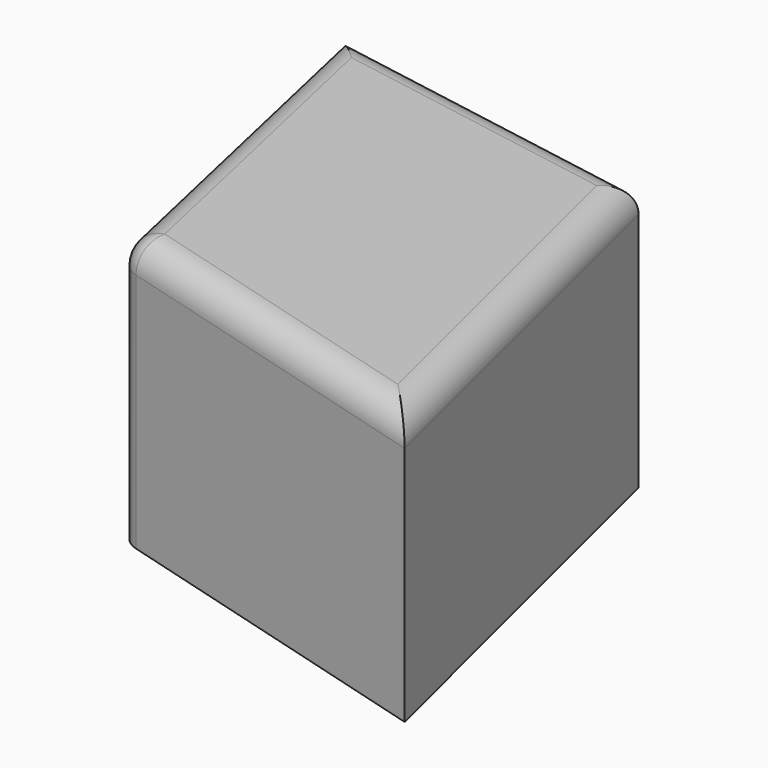
from build123d import *

# Parameters (mm, degrees)
F1_DEPTH = 49.276
F2_R     = 5.08


with BuildPart() as f1:
    # F0 (on Top) → F1 (new body)
    with BuildSketch(Plane.XY):
        Polygon((-46.604361, 25.850823), (-109.627448, 36.7986), (-93.956865, -33.044264), (-27.403316, -51.814996), align=None)
    extrude(amount=F1_DEPTH)

    # F2
    f2_edges = [f1.edges().sort_by_distance(p)[0] for p in [
        (-101.792157, 1.877168, 49.276),
        (-37.003838, -12.982086, 49.276),
        (-60.68009, -42.42963, 49.276),
        (-78.115905, 31.324712, 49.276),
        (-93.956865, -33.044264, 24.638),
    ]]
    fillet(f2_edges, radius=F2_R)


solid = f1.part
